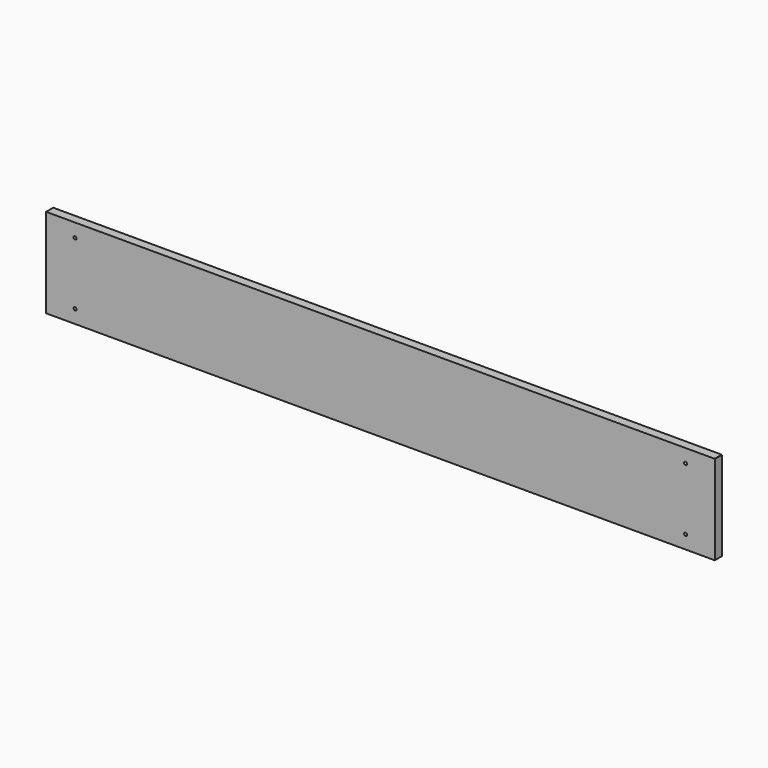
from build123d import *

# Parameters (mm, degrees)
F0_W     = 1500
F0_H     = 200
F1_DEPTH = 20
F2_R     = 5.6
F4_DEPTH = 6
F3_R     = 3.4
F5_DEPTH = 20.001
F6_W     = 1500
F6_H     = 20
F7_DEPTH = 0.5
F8_W     = 20
F8_H     = 200
F9_DEPTH = 0.5


with BuildPart() as f1:
    # F0 (on Front) → F1 (new body)
    with BuildSketch(Plane.XZ):
        Rectangle(F0_W, F0_H)
    extrude(amount=F1_DEPTH)

    # F2 (on face) → F4 (cut)
    with BuildSketch(Plane(origin=(0, 0, 0), x_dir=(-1, 0, 0), z_dir=(0, 1, 0))):
        with Locations((-685, 70)):
            Circle(F2_R)
        with Locations((-685, -70)):
            Circle(F2_R)
        with Locations((685, 70)):
            Circle(F2_R)
        with Locations((685, -70)):
            Circle(F2_R)
    extrude(amount=-F4_DEPTH, mode=Mode.SUBTRACT)

    # F3 (on face) → F5 (cut, through all)
    with BuildSketch(Plane(origin=(0, 0, 0), x_dir=(-1, 0, 0), z_dir=(0, 1, 0))):
        with Locations((-685, 70)):
            Circle(F3_R)
        with Locations((-685, -70)):
            Circle(F3_R)
        with Locations((685, 70)):
            Circle(F3_R)
        with Locations((685, -70)):
            Circle(F3_R)
    extrude(amount=-F5_DEPTH, mode=Mode.SUBTRACT)


with BuildPart() as f7:
    # F6 (on face) → F7 (new body)
    with BuildSketch(Plane.XY.offset(100)):
        with Locations((0, -10)):
            Rectangle(F6_W, F6_H)
    extrude(amount=F7_DEPTH)


with BuildPart() as f9:
    # F8 (on face) → F9 (new body)
    with BuildSketch(Plane.YZ.offset(750)):
        with Locations((-10, 0)):
            Rectangle(F8_W, F8_H)
    extrude(amount=F9_DEPTH)


solid = Compound([f1.part, f7.part, f9.part])
